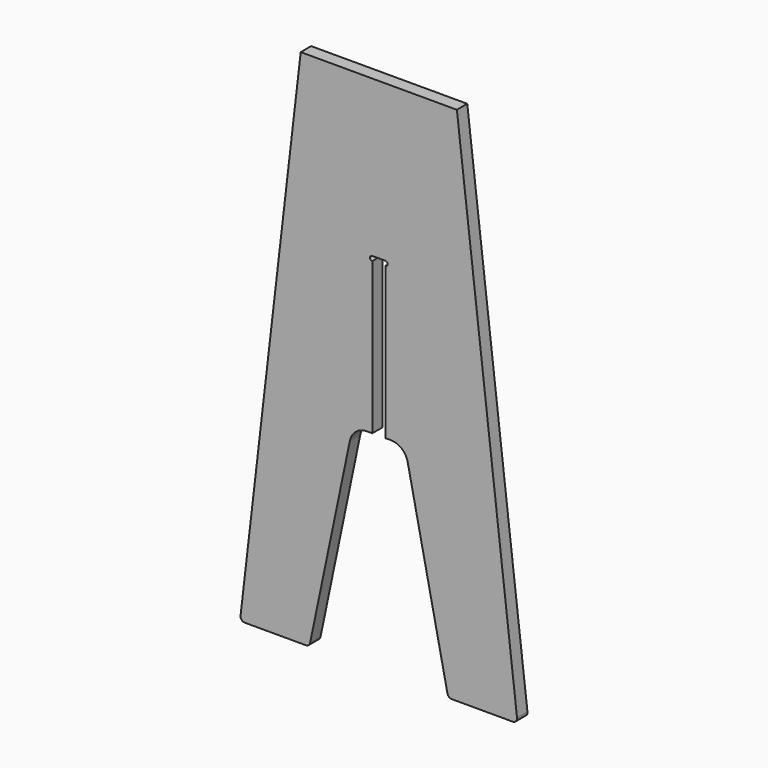
from build123d import *

# Parameters (mm, degrees)
F1_DEPTH = 19.05


with BuildPart() as f1:
    # F0 (on Front) → F1 (new body)
    with BuildSketch(Plane.XZ):
        with BuildLine():
            Line((-114.3, 457.2), (-202.373318, -297.714158))
            ThreePointArc((-202.373318, -297.714158), (-200.809256, -302.67196), (-196.066097, -304.8))
            Line((-196.066097, -304.8), (-106.763423, -304.8))
            ThreePointArc((-106.763423, -304.8), (-102.757269, -303.376786), (-100.546898, -299.74511))
            Line((-100.546898, -299.74511), (-42.312409, -20.219562))
            ThreePointArc((-42.312409, -20.219562), (-33.470926, -5.692855), (-17.446306, 0))
            Line((-17.446306, 0), (-9.525, 0))
            Line((-9.525, 0), (-9.525, 221.996))
            ThreePointArc((-9.525, 221.996), (-12.827, 225.298), (-9.525, 228.6))
            Line((-9.525, 228.6), (9.525, 228.6))
            ThreePointArc((9.525, 228.6), (12.827, 225.298), (9.525, 221.996))
            Line((9.525, 221.996), (9.525, 0))
            Line((9.525, 0), (17.446306, 0))
            ThreePointArc((17.446306, 0), (33.470926, -5.692855), (42.312409, -20.219562))
            Line((42.312409, -20.219562), (100.546898, -299.74511))
            ThreePointArc((100.546898, -299.74511), (102.757269, -303.376786), (106.763423, -304.8))
            Line((106.763423, -304.8), (196.066097, -304.8))
            ThreePointArc((196.066097, -304.8), (200.809256, -302.67196), (202.373318, -297.714158))
            Line((202.373318, -297.714158), (114.3, 457.2))
            Line((114.3, 457.2), (9.525, 457.2))
            Line((9.525, 457.2), (-114.3, 457.2))
        make_face()
    extrude(amount=F1_DEPTH)


solid = f1.part
